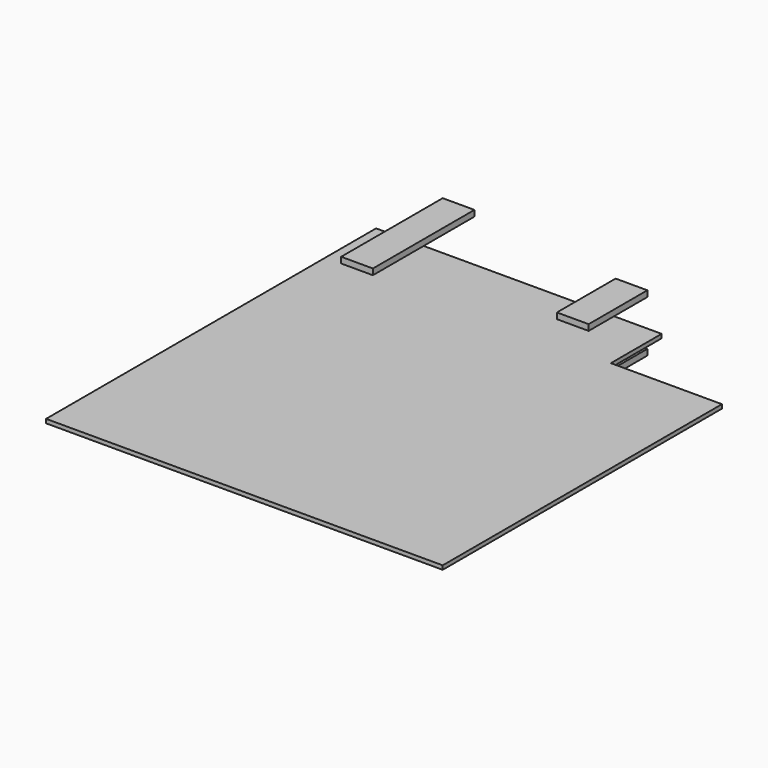
from build123d import *

# Parameters (mm, degrees)
F1_DEPTH  = 6.35
F2_W      = 50.8
F2_H      = 101.6
F3_DEPTH  = 9.525
F4_W      = 50.8
F4_H      = 9.525
F5_DEPTH  = 76.2
F6_W      = 50.8
F6_H      = 9.525
F7_DEPTH  = 92.075
F8_R      = 6.35
F9_DEPTH  = 25.4
F10_W     = 50.8
F10_H     = 66.675
F10_H_2   = 50.8
F11_DEPTH = 9.525
F12_W     = 9.525
F12_H     = 76.2
F13_DEPTH = 76.2
F15_DEPTH = 25.4
F16_W     = 50.8
F16_H     = 9.525
F17_DEPTH = 76.2
F18_W     = 50.8
F18_H     = 9.525
F19_DEPTH = 101.6
F20_R     = 6.35
F21_DEPTH = 25.4
F22_W     = 9.525
F22_H     = 76.2
F23_DEPTH = 76.2
F25_DEPTH = 25.4


with BuildPart() as f1:
    # F0 (on Top) → F1 (new body)
    with BuildSketch(Plane.XY):
        Polygon((-317.5, -330.2), (317.5, -330.2), (317.5, 228.6), (139.7, 228.6), (139.7, 330.2), (-317.5, 330.2), align=None)
    extrude(amount=F1_DEPTH)

    # F2 (on face) → F3 (join)
    with BuildSketch(Plane.XY.offset(6.35)):
        with Locations((-266.7, 279.4)):
            Rectangle(F2_W, F2_H)
        with Locations((-266.7, 381)):
            Rectangle(F2_W, F2_H)
    extrude(amount=F3_DEPTH)

    # F4 (on face) → F5 (join)
    with BuildSketch(Plane(origin=(0, 0, 0), x_dir=(1, 0, 0), z_dir=(0, 0, -1))):
        with Locations((38.1, -300.0375)):
            Rectangle(F4_W, F4_H)
    extrude(amount=F5_DEPTH)

    # F6 (on face) → F7 (join)
    with BuildSketch(Plane(origin=(0, 304.8, 0), x_dir=(-1, 0, 0), z_dir=(0, 1, 0))):
        with Locations((-38.1, -71.4375)):
            Rectangle(F6_W, F6_H)
    extrude(amount=F7_DEPTH)

    # F8 (on face) → F9 (cut)
    with BuildSketch(Plane(origin=(0, 0, -76.2), x_dir=(1, 0, 0), z_dir=(0, 0, -1))):
        with Locations((38.1, -384.175)):
            Circle(F8_R)
    extrude(amount=-F9_DEPTH, mode=Mode.SUBTRACT)

    # F10 (on face) → F11 (join)
    with BuildSketch(Plane.XY.offset(6.35)):
        with Locations((38.1, 363.5375)):
            Rectangle(F10_W, F10_H)
        with Locations((38.1, 304.8)):
            Rectangle(F10_W, F10_H_2)
    extrude(amount=F11_DEPTH)

    # F12 (on face) → F13 (join)
    with BuildSketch(Plane.XZ.offset(-295.275)):
        with Locations((38.1, -38.1)):
            Rectangle(F12_W, F12_H)
    extrude(amount=F13_DEPTH)

    # F14 (on face) → F15 (cut)
    with BuildSketch(Plane.YZ.offset(42.8625)):
        Polygon((219.075, -76.2), (295.275, -76.2), (219.075, 0), align=None)
    extrude(amount=-F15_DEPTH, mode=Mode.SUBTRACT)

    # F16 (on face) → F17 (join)
    with BuildSketch(Plane(origin=(0, 0, 0), x_dir=(1, 0, 0), z_dir=(0, 0, -1))):
        with Locations((-266.7, -300.0375)):
            Rectangle(F16_W, F16_H)
    extrude(amount=F17_DEPTH)

    # F18 (on face) → F19 (join)
    with BuildSketch(Plane(origin=(0, 304.8, 0), x_dir=(-1, 0, 0), z_dir=(0, 1, 0))):
        with Locations((266.7, -71.4375)):
            Rectangle(F18_W, F18_H)
    extrude(amount=F19_DEPTH)

    # F20 (on face) → F21 (cut)
    with BuildSketch(Plane(origin=(0, 0, -76.2), x_dir=(1, 0, 0), z_dir=(0, 0, -1))):
        with Locations((-266.7, -393.7)):
            Circle(F20_R)
    extrude(amount=-F21_DEPTH, mode=Mode.SUBTRACT)

    # F22 (on face) → F23 (join)
    with BuildSketch(Plane.XZ.offset(-295.275)):
        with Locations((-266.7, -38.1)):
            Rectangle(F22_W, F22_H)
    extrude(amount=F23_DEPTH)

    # F24 (on face) → F25 (cut)
    with BuildSketch(Plane(origin=(-271.4625, 0, 0), x_dir=(0, -1, 0), z_dir=(-1, 0, 0))):
        Polygon((-219.075, 0), (-295.275, -76.2), (-219.075, -76.2), align=None)
    extrude(amount=-F25_DEPTH, mode=Mode.SUBTRACT)


solid = f1.part
